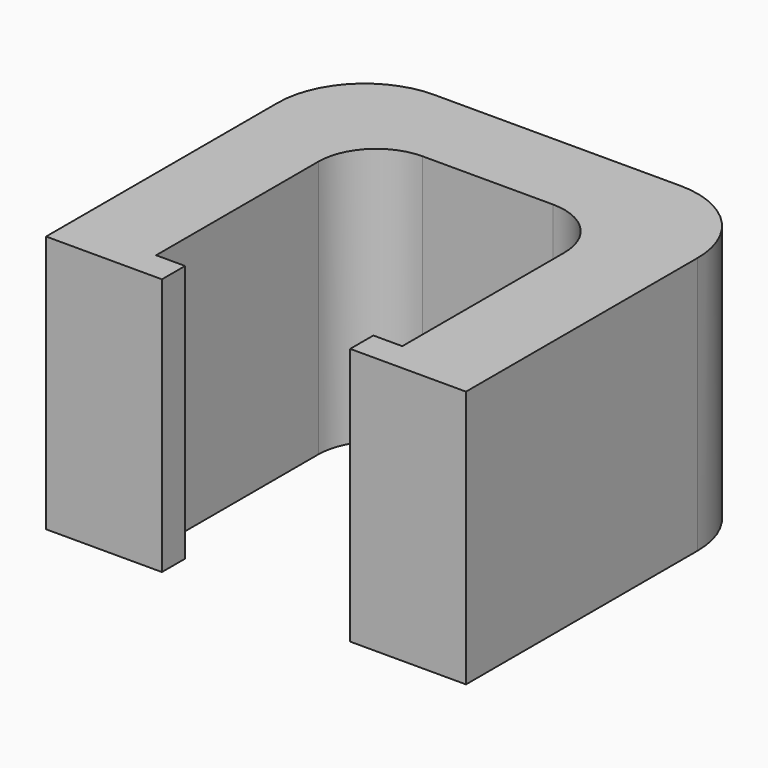
from build123d import *

# Parameters (mm, degrees)
F0_W     = 1
F0_H     = 1
F1_DEPTH = 8.9


with BuildPart() as f1:
    # F0 (on Top) → F1 (new body)
    with BuildSketch(Plane.XY):
        with Locations((-11, 0.5)):
            Rectangle(F0_W, F0_H)
        with BuildLine():
            Line((-14.5, 10), (-14.5, 0))
            Line((-14.5, 0), (-11.5, 0))
            Line((-11.5, 0), (-11.5, 1))
            Line((-11.5, 1), (-11.5, 8))
            ThreePointArc((-11.5, 8), (-10.914214, 9.414214), (-9.5, 10))
            Line((-9.5, 10), (-5, 10))
            ThreePointArc((-5, 10), (-3.585786, 9.414214), (-3, 8))
            Line((-3, 8), (-3, 1))
            Line((-3, 1), (-3, 0))
            Line((-3, 0), (0, 0))
            Line((0, 0), (0, 10))
            ThreePointArc((0, 10), (-0.87868, 12.12132), (-3, 13))
            Line((-3, 13), (-11.5, 13))
            ThreePointArc((-11.5, 13), (-13.62132, 12.12132), (-14.5, 10))
        make_face()
        with Locations((-3.5, 0.5)):
            Rectangle(F0_W, F0_H)
    extrude(amount=F1_DEPTH)


solid = f1.part
